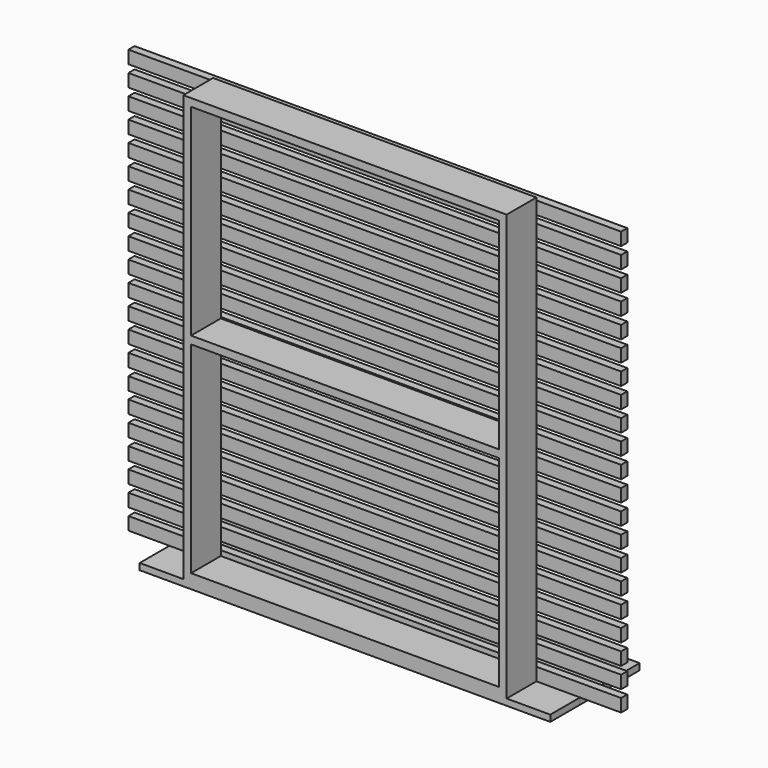
from build123d import *

# Parameters (mm, degrees)
F0_W     = 1600.2
F0_H     = 2108.2
F0_W_2   = 1524
F0_H_2   = 2032
F1_DEPTH = 184.15
F3_W     = 1524
F3_H     = 184.15
F4_DEPTH = 19.05
F6_DEPTH = 31.75
F7_W     = 38.1
F7_H     = 63.5
F8_DEPTH = 1219.2


with BuildPart() as f1:
    # F0 (on Front) → F1 (new body)
    with BuildSketch(Plane.XZ):
        Rectangle(F0_W, F0_H)
        Rectangle(F0_W_2, F0_H_2, mode=Mode.SUBTRACT)
    extrude(amount=F1_DEPTH)

    # F3 (on Top) → F4 (join, symmetric)
    with BuildSketch(Plane.XY):
        with Locations((0, -92.075)):
            Rectangle(F3_W, F3_H)
    extrude(amount=F4_DEPTH, both=True)

    # F5 (on face) → F6 (join)
    with BuildSketch(Plane(origin=(0, 0, -1054.1), x_dir=(1, 0, 0), z_dir=(0, 0, -1))):
        Polygon((-1016, 0), (0, 0), (1016, 0), (1016, 184.15), (-1016, 184.15), align=None)
        Polygon((1016, -0.0254), (-1016, -0.0254), (-1016, -184.1754), (0, -184.1754), (1016, -184.1754), align=None)
        Polygon((1016, -184.2008), (-1016, -184.2008), (-1016, -368.3508), (0, -368.3508), (1016, -368.3508), align=None)
    extrude(amount=F6_DEPTH)


with BuildPart() as f8:
    # F7 (on Right) → F8 (new body, symmetric)
    with BuildSketch(Plane.YZ):
        with Locations((19.05, -1022.35)):
            Rectangle(F7_W, F7_H)
        with Locations((19.05, -920.75)):
            Rectangle(F7_W, F7_H)
        with Locations((19.05, -819.15)):
            Rectangle(F7_W, F7_H)
        with Locations((19.05, -717.55)):
            Rectangle(F7_W, F7_H)
        with Locations((19.05, -615.95)):
            Rectangle(F7_W, F7_H)
        with Locations((19.05, -514.35)):
            Rectangle(F7_W, F7_H)
        with Locations((19.05, -412.75)):
            Rectangle(F7_W, F7_H)
        with Locations((19.05, -311.15)):
            Rectangle(F7_W, F7_H)
        with Locations((19.05, -209.55)):
            Rectangle(F7_W, F7_H)
        with Locations((19.05, -107.95)):
            Rectangle(F7_W, F7_H)
        with Locations((19.05, -6.35)):
            Rectangle(F7_W, F7_H)
        with Locations((19.05, 95.25)):
            Rectangle(F7_W, F7_H)
        with Locations((19.05, 196.85)):
            Rectangle(F7_W, F7_H)
        with Locations((19.05, 298.45)):
            Rectangle(F7_W, F7_H)
        with Locations((19.05, 400.05)):
            Rectangle(F7_W, F7_H)
        with Locations((19.05, 501.65)):
            Rectangle(F7_W, F7_H)
        with Locations((19.05, 603.25)):
            Rectangle(F7_W, F7_H)
        with Locations((19.05, 704.85)):
            Rectangle(F7_W, F7_H)
        with Locations((19.05, 806.45)):
            Rectangle(F7_W, F7_H)
        with Locations((19.05, 908.05)):
            Rectangle(F7_W, F7_H)
        with Locations((19.05, 1009.65)):
            Rectangle(F7_W, F7_H)
    extrude(amount=F8_DEPTH, both=True)


solid = Compound([f1.part, f8.part])
